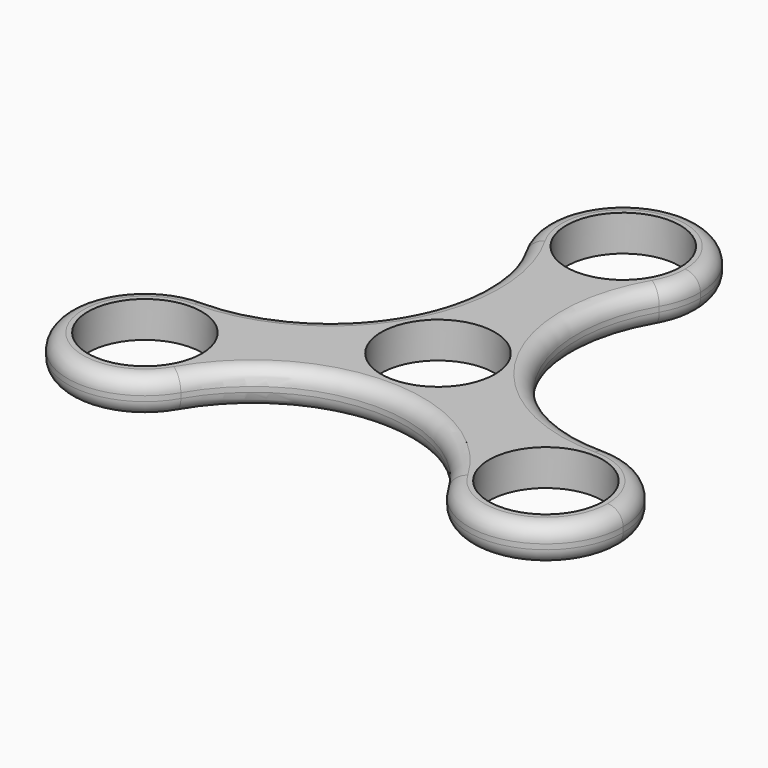
from build123d import *

# Parameters (mm, degrees)
F0_R     = 11.05
F1_DEPTH = 7
F2_R     = 3


with BuildPart() as f1:
    # F0 (on Top) → F1 (new body)
    with BuildSketch(Plane.XY):
        with BuildLine():
            ThreePointArc((-23.971143, -22.5), (-28.364541, -11.893398), (-38.971143, -7.5))
            ThreePointArc((-38.971143, -7.5), (-51.961524, -30), (-25.980762, -30))
            ThreePointArc((-25.980762, -30), (-24.482256, -26.382286), (-23.971143, -22.5))
        make_face()
        with Locations((-38.971143, -22.5)):
            Circle(F0_R, mode=Mode.SUBTRACT)
        with BuildLine():
            ThreePointArc((12.990381, 37.5), (0, 30), (-12.990381, 37.5))
            ThreePointArc((-12.990381, 37.5), (-12.990381, 7.5), (-38.971143, -7.5))
            ThreePointArc((-38.971143, -7.5), (-28.364541, -11.893398), (-23.971143, -22.5))
            ThreePointArc((-23.971143, -22.5), (-24.482256, -26.382286), (-25.980762, -30))
            ThreePointArc((-25.980762, -30), (0, -15), (25.980762, -30))
            ThreePointArc((25.980762, -30), (25.980762, -15), (38.971143, -7.5))
            ThreePointArc((38.971143, -7.5), (12.990381, 7.5), (12.990381, 37.5))
        make_face()
        Circle(F0_R, mode=Mode.SUBTRACT)
        with BuildLine():
            ThreePointArc((12.990381, 37.5), (14.488887, 41.117714), (15, 45))
            ThreePointArc((15, 45), (-3.882286, 59.488887), (-12.990381, 37.5))
            ThreePointArc((-12.990381, 37.5), (0, 30), (12.990381, 37.5))
        make_face()
        with Locations((0, 45)):
            Circle(F0_R, mode=Mode.SUBTRACT)
        with BuildLine():
            ThreePointArc((53.971143, -22.5), (49.577745, -11.893398), (38.971143, -7.5))
            ThreePointArc((38.971143, -7.5), (25.980762, -15), (25.980762, -30))
            ThreePointArc((25.980762, -30), (42.853429, -36.988887), (53.971143, -22.5))
        make_face()
        with Locations((38.971143, -22.5)):
            Circle(F0_R, mode=Mode.SUBTRACT)
    extrude(amount=F1_DEPTH)

    # F2
    f2_edges = [f1.edges().sort_by_distance(p)[0] for p in [
        (-51.961524, -30, 7),
        (0, -15, 0),
    ]]
    fillet(f2_edges, radius=F2_R)


solid = f1.part
